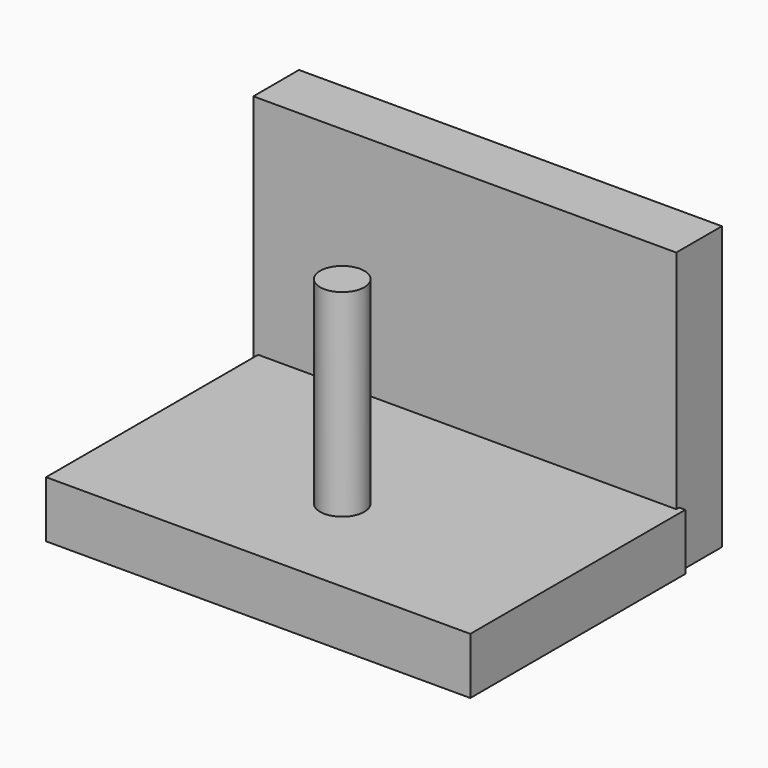
from build123d import *

# Parameters (mm, degrees)
F0_W     = 150.186099
F0_H     = 95.117865
F1_DEPTH = 20
F2_R     = 7.844958
F3_DEPTH = 70
F4_W     = 149.729192
F4_H     = 20.198451
F5_DEPTH = 100


with BuildPart() as f1:
    # F0 (on Top) → F1 (new body)
    with BuildSketch(Plane.XY):
        with Locations((1.266945, -27.573706)):
            Rectangle(F0_W, F0_H)
    extrude(amount=F1_DEPTH)

    # F2 (on face) → F3 (join)
    with BuildSketch(Plane.XY.offset(20)):
        with Locations((0, -36.366057)):
            Circle(F2_R)
    extrude(amount=F3_DEPTH)

    # F4 (on Top) → F5 (join)
    with BuildSketch(Plane.XY):
        with Locations((-0.657424, 28.801786)):
            Rectangle(F4_W, F4_H)
    extrude(amount=F5_DEPTH)


solid = f1.part
